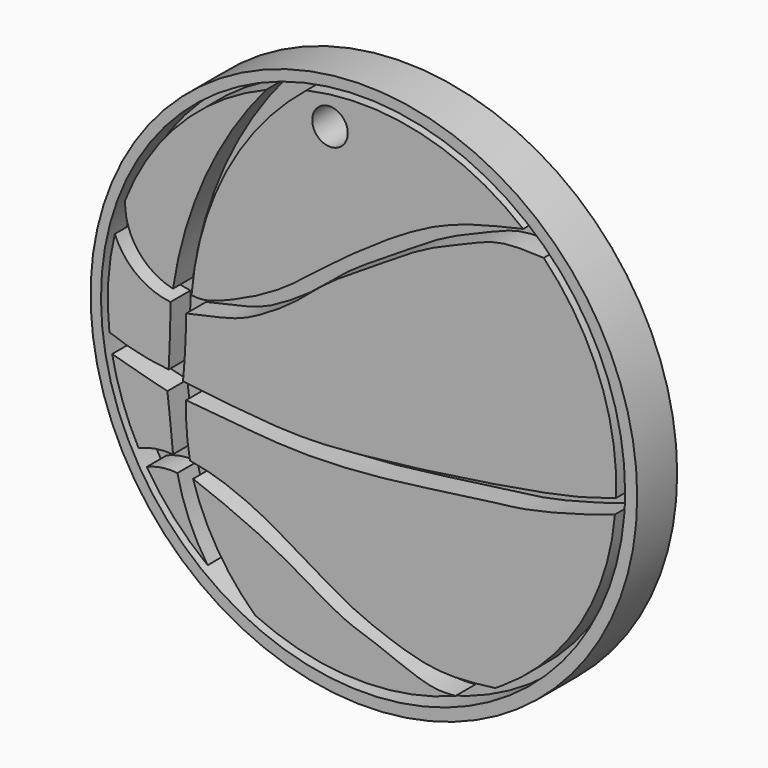
from build123d import *

# Parameters (mm, degrees)
F0_R     = 32.8424355781
F1_DEPTH = 3
F2_DEPTH = 6
F3_R     = 2.1357233874
F4_DEPTH = 25


with BuildPart() as f1:
    # F0 (on Front) → F1 (new body)
    with BuildSketch(Plane.XZ):
        with Locations((1.5509129259, 0.9965085191)):
            Circle(F0_R)
        with BuildLine():
            ThreePointArc((32.8382503851, -1.4137114666), (-30.0167228948, 2.3055888224), (32.9359755948, 1.0651802061))
            ThreePointArc((32.9359755948, 1.0651802061), (32.9115348072, -0.1752284102), (32.8382503851, -1.4137114666))
        make_face(mode=Mode.SUBTRACT)
        with BuildLine():
            ThreePointArc((32.8382503851, -1.4137114666), (32.9115348072, -0.1752284102), (32.9359755948, 1.0651802061))
            ThreePointArc((32.9359755948, 1.0651802061), (-30.0167228948, 2.3055888224), (32.8382503851, -1.4137114666))
        make_face()
        with BuildLine():
            ThreePointArc((-24.544600187, -15.0412277465), (-22.7365159448, -14.5321027265), (-20.8585057408, -14.4939636812))
            ThreePointArc((-20.8585057408, -14.4939636812), (-19.4624809065, -18.9565250068), (-17.2263765873, -23.0630048128))
            ThreePointArc((-17.2263765873, -23.0630048128), (-21.2447298373, -19.3798503013), (-24.544600187, -15.0412277465))
        make_face(mode=Mode.SUBTRACT)
        with BuildLine():
            ThreePointArc((-11.5016081107, -26.5174236285), (-16.04501933, -21.0063602949), (-18.9781226218, -14.4939636812))
            add(Edge.make_bspline(
                [(-18.9781226218, -14.4939636812), (-18.3751135826, -14.7122514959), (-16.8745695298, -15.2554412716), (-12.3081216408, -17.1617795239), (-9.1706280894, -18.6929506916), (-4.8220232725, -21.1421627868), (-0.8377933522, -23.6203364015), (3.0634287881, -24.662826577), (9.2602732121, -27.4466338225), (11.6096290196, -27.2804177135), (12.5688857493, -27.1964613314)],
                knots=[0, 0, 0, 0, 0.0903784625, 0.224834843, 0.3419523623, 0.4774481405, 0.6084474696, 0.7333777755, 0.8907908221, 1, 1, 1, 1], degree=3))
            ThreePointArc((12.5688857493, -27.1964613314), (0.4639168547, -29.3284431244), (-11.5016081107, -26.5174236285))
        make_face(mode=Mode.SUBTRACT)
        with BuildLine():
            ThreePointArc((-22.0619495958, -6.2202806585), (-21.7018053298, -9.4522704409), (-21.3850121945, -12.6887969673))
            ThreePointArc((-21.3850121945, -12.6887969673), (-23.4951961494, -12.7766963566), (-25.5222962154, -13.3695436798))
            ThreePointArc((-25.5222962154, -13.3695436798), (-27.4569661085, -9.0342182914), (-28.6966428467, -4.4515121692))
            ThreePointArc((-28.6966428467, -4.4515121692), (-25.385577748, -5.3594585721), (-22.0619495958, -6.2202806585))
        make_face(mode=Mode.SUBTRACT)
        with BuildLine():
            add(Edge.make_bspline(
                [(-19.8054909706, -6.4459266141), (-17.2405251579, -6.6830312073), (-12.3156568073, -7.1382844121), (-5.8817250719, -7.6655951703), (3.9518279064, -7.206791262), (15.9347936392, -5.2848961111), (21.1274985286, -4.8898328892), (28.4595354824, -2.900812271), (30.7768057351, -2.1053287963), (31.7169912159, -1.7825774848)],
                knots=[0, 0, 0, 0, 0.1455305871, 0.2794263295, 0.4485059927, 0.6327837311, 0.7580756624, 0.9018440989, 1, 1, 1, 1], degree=3))
            ThreePointArc((31.7169912159, -1.7825774848), (27.5764256164, -14.6098274364), (18.1782376021, -24.271953851))
            ThreePointArc((18.1782376021, -24.271953851), (17.7520247802, -24.5487583606), (17.3212665485, -24.8184349298))
            add(Edge.make_bspline(
                [(-19.3541999906, -12.6887969673), (-18.3014887199, -12.8761036824), (-15.8916926045, -13.3048825483), (-10.313825987, -15.6957239993), (-6.9212585733, -17.8729861801), (0.0790359724, -21.994619373), (3.4523936188, -23.2864042332), (10.050322929, -25.7054572359), (14.8545331259, -25.1302687808), (17.3212665485, -24.8184349298)],
                knots=[0, 0, 0, 0, 0.1138551204, 0.2605684116, 0.3889085987, 0.5583048609, 0.6779808035, 0.834271244, 1, 1, 1, 1], degree=3))
            ThreePointArc((-19.3541999906, -12.6887969673), (-19.7513247577, -9.5797578596), (-19.8054909706, -6.4459266141))
        make_face(mode=Mode.SUBTRACT)
        with BuildLine():
            ThreePointArc((-29.0282272822, -2.2593714298), (-29.1689380999, 3.0762859984), (-28.3788930848, 8.3550044603))
            ThreePointArc((-28.3788930848, 8.3550044603), (-25.7308395314, 4.9128482351), (-21.6858740896, 3.3320630901))
            ThreePointArc((-21.6858740896, 3.3320630901), (-21.7563576622, -0.2795945022), (-21.9115205109, -3.888605861))
            ThreePointArc((-21.9115205109, -3.888605861), (-25.5257690151, -3.3181457543), (-29.0282272822, -2.2593714298))
        make_face(mode=Mode.SUBTRACT)
        with BuildLine():
            ThreePointArc((-21.3850121945, 4.8363697715), (-25.6193545771, 7.5308457661), (-27.13653477, 12.3149883812))
            ThreePointArc((-27.13653477, 12.3149883812), (-20.4399884379, 22.6503194199), (-10.2068541178, 29.5020171982))
            ThreePointArc((-10.2068541178, 29.5020171982), (-17.5184935417, 17.9498359693), (-21.3850121945, 4.8363697715))
        make_face(mode=Mode.SUBTRACT)
        with BuildLine():
            ThreePointArc((-19.162222743, 4.8617650755), (-14.9585077451, 19.3618990423), (-5.3664671589, 31.0202806724))
            ThreePointArc((-5.3664671589, 31.0202806724), (8.3765105081, 30.9373734857), (20.6926632003, 24.8391203243))
            add(Edge.make_bspline(
                [(-19.162222743, 4.8617650755), (-18.7235289738, 4.8228245735), (-17.6006223065, 4.723152217), (-14.1704925969, 5.9403648949), (-8.3254596876, 8.7743716924), (-2.7233938435, 13.5383088571), (5.8214936187, 19.5580766317), (12.4098953858, 22.9313593004), (17.8814688164, 24.1955629861), (20.6926632003, 24.8391203243)],
                knots=[0, 0, 0, 0, 0.0695330956, 0.177948514, 0.3254575248, 0.4857233135, 0.6726853834, 0.8316544967, 1, 1, 1, 1], degree=3))
        make_face(mode=Mode.SUBTRACT)
        with BuildLine():
            ThreePointArc((23.1609396207, 22.578950232), (29.837194441, 12.1865411003), (31.8528238711, 0))
            add(Edge.make_bspline(
                [(31.8528238711, 0), (30.9910074198, -0.2691362407), (29.053265797, -0.8742726302), (24.8698324969, -2.0521736565), (11.4552455354, -4.250158759), (1.294367269, -5.4414143124), (-7.3038113374, -6.0988764854), (-15.5818967695, -5.1132189961), (-20.1815683395, -4.5655439608)],
                knots=[0, 0, 0, 0, 0.096394123, 0.2167362947, 0.4313568266, 0.621059482, 0.7894438344, 1, 1, 1, 1], degree=3))
            ThreePointArc((-20.1815683395, -4.5655439608), (-19.9163589148, -0.921579514), (-19.8054909706, 2.7303406969))
            add(Edge.make_bspline(
                [(23.1609396207, 22.578950232), (22.4492446287, 22.619105613), (20.865909565, 22.6939515129), (17.4428341786, 22.6162244336), (13.6154577278, 20.9016443618), (8.6133155963, 18.9334281257), (3.6543702932, 15.5789827183), (-3.0999629437, 11.5349114977), (-6.5039000439, 8.1515181744), (-12.0568371916, 4.6661906627), (-15.0768253252, 3.7533224899), (-18.1293987667, 3.0929402567), (-19.8054909706, 2.7303406969)],
                knots=[0, 0, 0, 0, 0.0692835153, 0.1533999643, 0.2478666777, 0.353996424, 0.4687741005, 0.5967929062, 0.7008894797, 0.8161031573, 0.8990031391, 1, 1, 1, 1], degree=3))
        make_face(mode=Mode.SUBTRACT)
        with BuildLine():
            add(Edge.make_bspline(
                [(31.8528238711, 0), (30.9910074198, -0.2691362407), (29.053265797, -0.8742726302), (24.8698324969, -2.0521736565), (11.4552455354, -4.250158759), (1.294367269, -5.4414143124), (-7.3038113374, -6.0988764854), (-15.5818967695, -5.1132189961), (-20.1815683395, -4.5655439608)],
                knots=[0, 0, 0, 0, 0.096394123, 0.2167362947, 0.4313568266, 0.621059482, 0.7894438344, 1, 1, 1, 1], degree=3))
            ThreePointArc((31.8528238711, 0), (29.837194441, 12.1865411003), (23.1609396207, 22.578950232))
            add(Edge.make_bspline(
                [(23.1609396207, 22.578950232), (22.4492446287, 22.619105613), (20.865909565, 22.6939515129), (17.4428341786, 22.6162244336), (13.6154577278, 20.9016443618), (8.6133155963, 18.9334281257), (3.6543702932, 15.5789827183), (-3.0999629437, 11.5349114977), (-6.5039000439, 8.1515181744), (-12.0568371916, 4.6661906627), (-15.0768253252, 3.7533224899), (-18.1293987667, 3.0929402567), (-19.8054909706, 2.7303406969)],
                knots=[0, 0, 0, 0, 0.0692835153, 0.1533999643, 0.2478666777, 0.353996424, 0.4687741005, 0.5967929062, 0.7008894797, 0.8161031573, 0.8990031391, 1, 1, 1, 1], degree=3))
            ThreePointArc((-19.8054909706, 2.7303406969), (-19.9163589148, -0.921579514), (-20.1815683395, -4.5655439608))
        make_face()
        with BuildLine():
            ThreePointArc((18.1782376021, -24.271953851), (27.5764256164, -14.6098274364), (31.7169912159, -1.7825774848))
            add(Edge.make_bspline(
                [(-19.8054909706, -6.4459266141), (-17.2405251579, -6.6830312073), (-12.3156568073, -7.1382844121), (-5.8817250719, -7.6655951703), (3.9518279064, -7.206791262), (15.9347936392, -5.2848961111), (21.1274985286, -4.8898328892), (28.4595354824, -2.900812271), (30.7768057351, -2.1053287963), (31.7169912159, -1.7825774848)],
                knots=[0, 0, 0, 0, 0.1455305871, 0.2794263295, 0.4485059927, 0.6327837311, 0.7580756624, 0.9018440989, 1, 1, 1, 1], degree=3))
            ThreePointArc((-19.8054909706, -6.4459266141), (-19.7513247577, -9.5797578596), (-19.3541999906, -12.6887969673))
            add(Edge.make_bspline(
                [(-19.3541999906, -12.6887969673), (-18.3014887199, -12.8761036824), (-15.8916926045, -13.3048825483), (-10.313825987, -15.6957239993), (-6.9212585733, -17.8729861801), (0.0790359724, -21.994619373), (3.4523936188, -23.2864042332), (10.050322929, -25.7054572359), (14.8545331259, -25.1302687808), (17.3212665485, -24.8184349298)],
                knots=[0, 0, 0, 0, 0.1138551204, 0.2605684116, 0.3889085987, 0.5583048609, 0.6779808035, 0.834271244, 1, 1, 1, 1], degree=3))
            ThreePointArc((17.3212665485, -24.8184349298), (17.7520247802, -24.5487583606), (18.1782376021, -24.271953851))
        make_face()
        with BuildLine():
            ThreePointArc((20.6926632003, 24.8391203243), (8.3765105081, 30.9373734857), (-5.3664671589, 31.0202806724))
            ThreePointArc((-5.3664671589, 31.0202806724), (-14.9585077451, 19.3618990423), (-19.162222743, 4.8617650755))
            add(Edge.make_bspline(
                [(-19.162222743, 4.8617650755), (-18.7235289738, 4.8228245735), (-17.6006223065, 4.723152217), (-14.1704925969, 5.9403648949), (-8.3254596876, 8.7743716924), (-2.7233938435, 13.5383088571), (5.8214936187, 19.5580766317), (12.4098953858, 22.9313593004), (17.8814688164, 24.1955629861), (20.6926632003, 24.8391203243)],
                knots=[0, 0, 0, 0, 0.0695330956, 0.177948514, 0.3254575248, 0.4857233135, 0.6726853834, 0.8316544967, 1, 1, 1, 1], degree=3))
        make_face()
        with BuildLine():
            add(Edge.make_bspline(
                [(-18.9781226218, -14.4939636812), (-18.3751135826, -14.7122514959), (-16.8745695298, -15.2554412716), (-12.3081216408, -17.1617795239), (-9.1706280894, -18.6929506916), (-4.8220232725, -21.1421627868), (-0.8377933522, -23.6203364015), (3.0634287881, -24.662826577), (9.2602732121, -27.4466338225), (11.6096290196, -27.2804177135), (12.5688857493, -27.1964613314)],
                knots=[0, 0, 0, 0, 0.0903784625, 0.224834843, 0.3419523623, 0.4774481405, 0.6084474696, 0.7333777755, 0.8907908221, 1, 1, 1, 1], degree=3))
            ThreePointArc((-18.9781226218, -14.4939636812), (-16.04501933, -21.0063602949), (-11.5016081107, -26.5174236285))
            ThreePointArc((-11.5016081107, -26.5174236285), (0.4639168547, -29.3284431244), (12.5688857493, -27.1964613314))
        make_face()
        with BuildLine():
            ThreePointArc((-10.2068541178, 29.5020171982), (-20.4399884379, 22.6503194199), (-27.13653477, 12.3149883812))
            ThreePointArc((-27.13653477, 12.3149883812), (-25.6193545771, 7.5308457661), (-21.3850121945, 4.8363697715))
            ThreePointArc((-21.3850121945, 4.8363697715), (-17.5184935417, 17.9498359693), (-10.2068541178, 29.5020171982))
        make_face()
        with BuildLine():
            ThreePointArc((-21.6858740896, 3.3320630901), (-25.7308395314, 4.9128482351), (-28.3788930848, 8.3550044603))
            ThreePointArc((-28.3788930848, 8.3550044603), (-29.1689380999, 3.0762859984), (-29.0282272822, -2.2593714298))
            ThreePointArc((-29.0282272822, -2.2593714298), (-25.5257690151, -3.3181457543), (-21.9115205109, -3.888605861))
            ThreePointArc((-21.9115205109, -3.888605861), (-21.7563576622, -0.2795945022), (-21.6858740896, 3.3320630901))
        make_face()
        with BuildLine():
            ThreePointArc((-25.5222962154, -13.3695436798), (-23.4951961494, -12.7766963566), (-21.3850121945, -12.6887969673))
            ThreePointArc((-21.3850121945, -12.6887969673), (-21.7018053298, -9.4522704409), (-22.0619495958, -6.2202806585))
            ThreePointArc((-22.0619495958, -6.2202806585), (-25.385577748, -5.3594585721), (-28.6966428467, -4.4515121692))
            ThreePointArc((-28.6966428467, -4.4515121692), (-27.4569661085, -9.0342182914), (-25.5222962154, -13.3695436798))
        make_face()
        with BuildLine():
            ThreePointArc((-17.2263765873, -23.0630048128), (-19.4624809065, -18.9565250068), (-20.8585057408, -14.4939636812))
            ThreePointArc((-20.8585057408, -14.4939636812), (-22.7365159448, -14.5321027265), (-24.544600187, -15.0412277465))
            ThreePointArc((-24.544600187, -15.0412277465), (-21.2447298373, -19.3798503013), (-17.2263765873, -23.0630048128))
        make_face()
    extrude(amount=F1_DEPTH)

    # F0 (on Front) → F2 (join)
    with BuildSketch(Plane.XZ):
        with Locations((1.5509129259, 0.9965085191)):
            Circle(F0_R)
        with BuildLine():
            ThreePointArc((32.8382503851, -1.4137114666), (-30.0167228948, 2.3055888224), (32.9359755948, 1.0651802061))
            ThreePointArc((32.9359755948, 1.0651802061), (32.9115348072, -0.1752284102), (32.8382503851, -1.4137114666))
        make_face(mode=Mode.SUBTRACT)
        with BuildLine():
            add(Edge.make_bspline(
                [(31.8528238711, 0), (30.9910074198, -0.2691362407), (29.053265797, -0.8742726302), (24.8698324969, -2.0521736565), (11.4552455354, -4.250158759), (1.294367269, -5.4414143124), (-7.3038113374, -6.0988764854), (-15.5818967695, -5.1132189961), (-20.1815683395, -4.5655439608)],
                knots=[0, 0, 0, 0, 0.096394123, 0.2167362947, 0.4313568266, 0.621059482, 0.7894438344, 1, 1, 1, 1], degree=3))
            ThreePointArc((31.8528238711, 0), (29.837194441, 12.1865411003), (23.1609396207, 22.578950232))
            add(Edge.make_bspline(
                [(23.1609396207, 22.578950232), (22.4492446287, 22.619105613), (20.865909565, 22.6939515129), (17.4428341786, 22.6162244336), (13.6154577278, 20.9016443618), (8.6133155963, 18.9334281257), (3.6543702932, 15.5789827183), (-3.0999629437, 11.5349114977), (-6.5039000439, 8.1515181744), (-12.0568371916, 4.6661906627), (-15.0768253252, 3.7533224899), (-18.1293987667, 3.0929402567), (-19.8054909706, 2.7303406969)],
                knots=[0, 0, 0, 0, 0.0692835153, 0.1533999643, 0.2478666777, 0.353996424, 0.4687741005, 0.5967929062, 0.7008894797, 0.8161031573, 0.8990031391, 1, 1, 1, 1], degree=3))
            ThreePointArc((-19.8054909706, 2.7303406969), (-19.9163589148, -0.921579514), (-20.1815683395, -4.5655439608))
        make_face()
        with BuildLine():
            ThreePointArc((18.1782376021, -24.271953851), (27.5764256164, -14.6098274364), (31.7169912159, -1.7825774848))
            add(Edge.make_bspline(
                [(-19.8054909706, -6.4459266141), (-17.2405251579, -6.6830312073), (-12.3156568073, -7.1382844121), (-5.8817250719, -7.6655951703), (3.9518279064, -7.206791262), (15.9347936392, -5.2848961111), (21.1274985286, -4.8898328892), (28.4595354824, -2.900812271), (30.7768057351, -2.1053287963), (31.7169912159, -1.7825774848)],
                knots=[0, 0, 0, 0, 0.1455305871, 0.2794263295, 0.4485059927, 0.6327837311, 0.7580756624, 0.9018440989, 1, 1, 1, 1], degree=3))
            ThreePointArc((-19.8054909706, -6.4459266141), (-19.7513247577, -9.5797578596), (-19.3541999906, -12.6887969673))
            add(Edge.make_bspline(
                [(-19.3541999906, -12.6887969673), (-18.3014887199, -12.8761036824), (-15.8916926045, -13.3048825483), (-10.313825987, -15.6957239993), (-6.9212585733, -17.8729861801), (0.0790359724, -21.994619373), (3.4523936188, -23.2864042332), (10.050322929, -25.7054572359), (14.8545331259, -25.1302687808), (17.3212665485, -24.8184349298)],
                knots=[0, 0, 0, 0, 0.1138551204, 0.2605684116, 0.3889085987, 0.5583048609, 0.6779808035, 0.834271244, 1, 1, 1, 1], degree=3))
            ThreePointArc((17.3212665485, -24.8184349298), (17.7520247802, -24.5487583606), (18.1782376021, -24.271953851))
        make_face()
        with BuildLine():
            ThreePointArc((20.6926632003, 24.8391203243), (8.3765105081, 30.9373734857), (-5.3664671589, 31.0202806724))
            ThreePointArc((-5.3664671589, 31.0202806724), (-14.9585077451, 19.3618990423), (-19.162222743, 4.8617650755))
            add(Edge.make_bspline(
                [(-19.162222743, 4.8617650755), (-18.7235289738, 4.8228245735), (-17.6006223065, 4.723152217), (-14.1704925969, 5.9403648949), (-8.3254596876, 8.7743716924), (-2.7233938435, 13.5383088571), (5.8214936187, 19.5580766317), (12.4098953858, 22.9313593004), (17.8814688164, 24.1955629861), (20.6926632003, 24.8391203243)],
                knots=[0, 0, 0, 0, 0.0695330956, 0.177948514, 0.3254575248, 0.4857233135, 0.6726853834, 0.8316544967, 1, 1, 1, 1], degree=3))
        make_face()
        with BuildLine():
            add(Edge.make_bspline(
                [(-18.9781226218, -14.4939636812), (-18.3751135826, -14.7122514959), (-16.8745695298, -15.2554412716), (-12.3081216408, -17.1617795239), (-9.1706280894, -18.6929506916), (-4.8220232725, -21.1421627868), (-0.8377933522, -23.6203364015), (3.0634287881, -24.662826577), (9.2602732121, -27.4466338225), (11.6096290196, -27.2804177135), (12.5688857493, -27.1964613314)],
                knots=[0, 0, 0, 0, 0.0903784625, 0.224834843, 0.3419523623, 0.4774481405, 0.6084474696, 0.7333777755, 0.8907908221, 1, 1, 1, 1], degree=3))
            ThreePointArc((-18.9781226218, -14.4939636812), (-16.04501933, -21.0063602949), (-11.5016081107, -26.5174236285))
            ThreePointArc((-11.5016081107, -26.5174236285), (0.4639168547, -29.3284431244), (12.5688857493, -27.1964613314))
        make_face()
        with BuildLine():
            ThreePointArc((-10.2068541178, 29.5020171982), (-20.4399884379, 22.6503194199), (-27.13653477, 12.3149883812))
            ThreePointArc((-27.13653477, 12.3149883812), (-25.6193545771, 7.5308457661), (-21.3850121945, 4.8363697715))
            ThreePointArc((-21.3850121945, 4.8363697715), (-17.5184935417, 17.9498359693), (-10.2068541178, 29.5020171982))
        make_face()
        with BuildLine():
            ThreePointArc((-21.6858740896, 3.3320630901), (-25.7308395314, 4.9128482351), (-28.3788930848, 8.3550044603))
            ThreePointArc((-28.3788930848, 8.3550044603), (-29.1689380999, 3.0762859984), (-29.0282272822, -2.2593714298))
            ThreePointArc((-29.0282272822, -2.2593714298), (-25.5257690151, -3.3181457543), (-21.9115205109, -3.888605861))
            ThreePointArc((-21.9115205109, -3.888605861), (-21.7563576622, -0.2795945022), (-21.6858740896, 3.3320630901))
        make_face()
        with BuildLine():
            ThreePointArc((-25.5222962154, -13.3695436798), (-23.4951961494, -12.7766963566), (-21.3850121945, -12.6887969673))
            ThreePointArc((-21.3850121945, -12.6887969673), (-21.7018053298, -9.4522704409), (-22.0619495958, -6.2202806585))
            ThreePointArc((-22.0619495958, -6.2202806585), (-25.385577748, -5.3594585721), (-28.6966428467, -4.4515121692))
            ThreePointArc((-28.6966428467, -4.4515121692), (-27.4569661085, -9.0342182914), (-25.5222962154, -13.3695436798))
        make_face()
        with BuildLine():
            ThreePointArc((-17.2263765873, -23.0630048128), (-19.4624809065, -18.9565250068), (-20.8585057408, -14.4939636812))
            ThreePointArc((-20.8585057408, -14.4939636812), (-22.7365159448, -14.5321027265), (-24.544600187, -15.0412277465))
            ThreePointArc((-24.544600187, -15.0412277465), (-21.2447298373, -19.3798503013), (-17.2263765873, -23.0630048128))
        make_face()
    extrude(amount=F2_DEPTH)

    # F3 (on face) → F4 (cut)
    with BuildSketch(Plane.XZ.offset(6)):
        with Locations((-2.5226557627, 28.1166452914)):
            Circle(F3_R)
    extrude(amount=-F4_DEPTH, mode=Mode.SUBTRACT)


solid = f1.part
